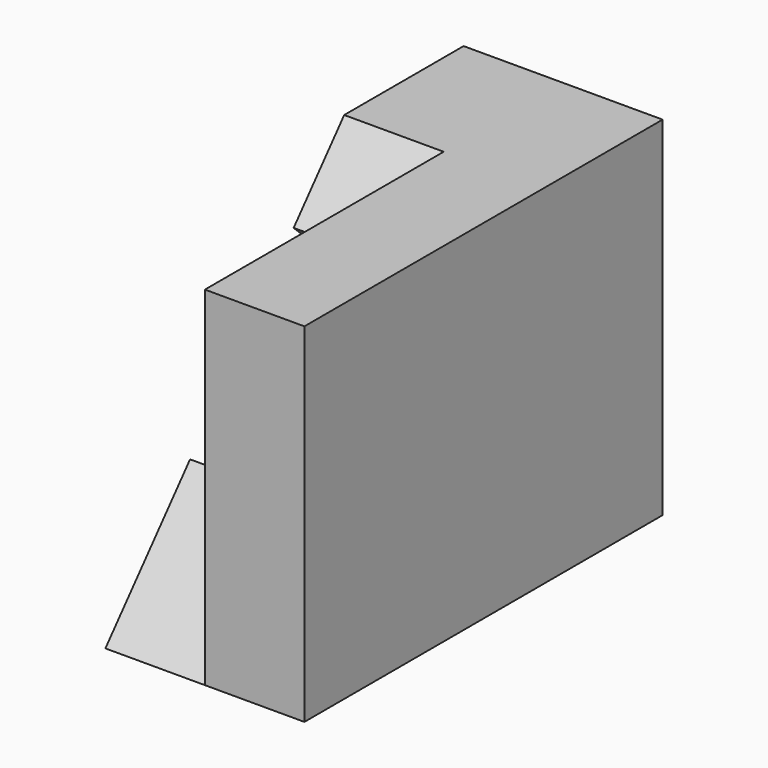
from build123d import *

# Parameters (mm, degrees)
F0_W     = 25.4
F0_H     = 44.45
F1_DEPTH = 57.15
F3_DEPTH = 12.7
F4_R     = 12.7
F5_DEPTH = 12.7


with BuildPart() as f1:
    # F0 (on Front) → F1 (new body)
    with BuildSketch(Plane.XZ):
        with Locations((-12.7, 22.225)):
            Rectangle(F0_W, F0_H)
    extrude(amount=F1_DEPTH)

    # F2 (on face) → F3 (cut)
    with BuildSketch(Plane(origin=(-25.4, 0, 0), x_dir=(0, -1, 0), z_dir=(-1, 0, 0))):
        Polygon((57.15, 44.45), (19.05, 44.45), (57.15, 0), align=None)
    extrude(amount=-F3_DEPTH, mode=Mode.SUBTRACT)

    # F4 (on face) → F5 (cut)
    with BuildSketch(Plane(origin=(-25.4, 0, 0), x_dir=(0, -1, 0), z_dir=(-1, 0, 0))):
        with Locations((35.378571, 25.4)):
            Circle(F4_R)
    extrude(amount=-F5_DEPTH, mode=Mode.SUBTRACT)


solid = f1.part
